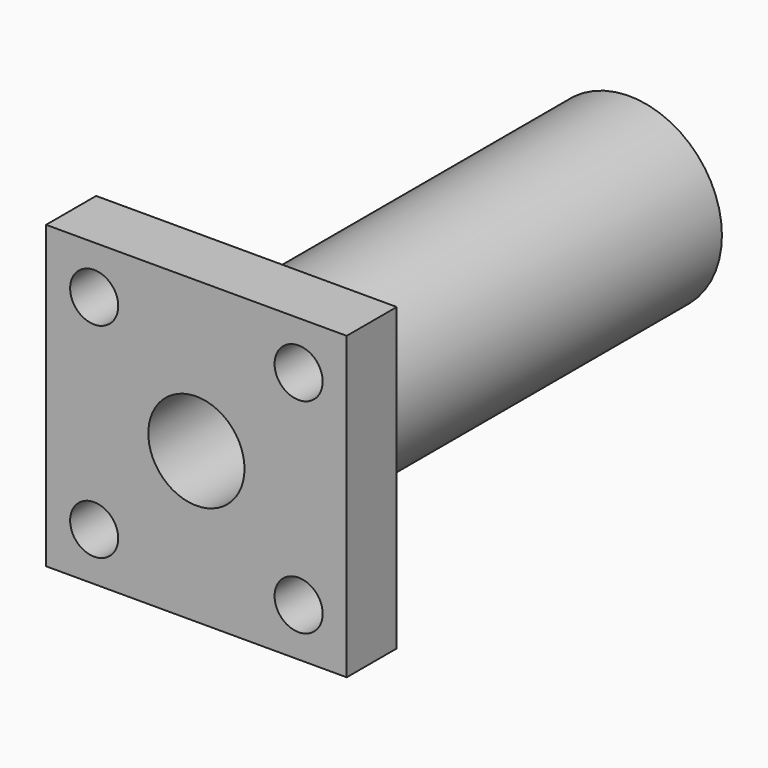
from build123d import *

# Parameters (mm, degrees)
CYLINDER159_R          = 2
CYLINDER159_DEPTH      = 10
CYLINDER161_R          = 2
CYLINDER161_DEPTH      = 10
CYLINDER162_R          = 2
CYLINDER162_DEPTH      = 10
CYLINDER158_R          = 2
CYLINDER158_DEPTH      = 10
CYLINDER160_R          = 4
CYLINDER160_DEPTH      = 60
CYLINDER157_R          = 7.7
CYLINDER157_DEPTH      = 40
BOX069_W               = 25
BOX069_H               = 25
BOX069_DEPTH           = 5.2
CUT147_PLACEMENT_ANGLE = 90


with BuildPart() as cylinder159:
    # Cylinder159 → Cylinder159 (new body)
    with BuildSketch(Plane(origin=(21, 21, -2), x_dir=(1, 0, 0), z_dir=(0, 0, 1))):
        Circle(CYLINDER159_R)
    extrude(amount=CYLINDER159_DEPTH)


with BuildPart() as cylinder161:
    # Cylinder161 → Cylinder161 (new body)
    with BuildSketch(Plane(origin=(21, 4, -2), x_dir=(1, 0, 0), z_dir=(0, 0, 1))):
        Circle(CYLINDER161_R)
    extrude(amount=CYLINDER161_DEPTH)


with BuildPart() as cylinder162:
    # Cylinder162 → Cylinder162 (new body)
    with BuildSketch(Plane(origin=(4, 21, -2), x_dir=(1, 0, 0), z_dir=(0, 0, 1))):
        Circle(CYLINDER162_R)
    extrude(amount=CYLINDER162_DEPTH)


with BuildPart() as cylinder158:
    # Cylinder158 → Cylinder158 (new body)
    with BuildSketch(Plane(origin=(4, 4, -2), x_dir=(1, 0, 0), z_dir=(0, 0, 1))):
        Circle(CYLINDER158_R)
    extrude(amount=CYLINDER158_DEPTH)


with BuildPart() as cylinder160:
    # Cylinder160 → Cylinder160 (new body)
    with BuildSketch(Plane(origin=(12.5, 12.5, -7), x_dir=(1, 0, 0), z_dir=(0, 0, 1))):
        Circle(CYLINDER160_R)
    extrude(amount=CYLINDER160_DEPTH)


with BuildPart() as cylinder157:
    # Cylinder157 → Cylinder157 (new body)
    with BuildSketch(Plane(origin=(12.5, 12.5, 5), x_dir=(1, 0, 0), z_dir=(0, 0, 1))):
        Circle(CYLINDER157_R)
    extrude(amount=CYLINDER157_DEPTH)


with BuildPart() as cut147:
    # Box069 → Box069 (new body)
    with BuildSketch(Plane.XY):
        with Locations((12.5, 12.5)):
            Rectangle(BOX069_W, BOX069_H)
    extrude(amount=BOX069_DEPTH)

    # Fusion082: union Cylinder157
    add(cylinder157.part)

    # Cut148: cut Cylinder160
    add(cylinder160.part, mode=Mode.SUBTRACT)

    # Cut145: cut Cylinder158
    add(cylinder158.part, mode=Mode.SUBTRACT)

    # Cut149: cut Cylinder162
    add(cylinder162.part, mode=Mode.SUBTRACT)

    # Cut146: cut Cylinder161
    add(cylinder161.part, mode=Mode.SUBTRACT)

    # Cut147: cut Cylinder159
    add(cylinder159.part, mode=Mode.SUBTRACT)


with BuildPart() as cut147_1:
    # Cut147 placement: moved
    add(cut147.part.moved(Location((91, 156.8, 95.5))).rotate(Axis((91, 156.8, 95.5), (-1, 0, 0)), CUT147_PLACEMENT_ANGLE))


solid = cut147_1.part
